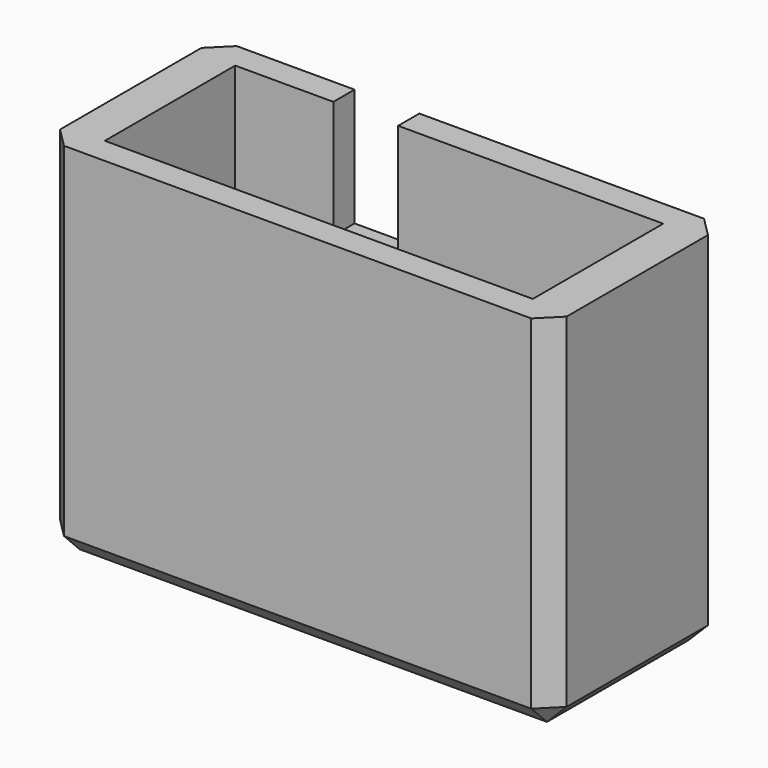
from build123d import *

# Parameters (mm, degrees)
SKETCH_W      = 21.8
SKETCH_H      = 7
PAD_DEPTH     = 10.5
THICKNESS_T   = 2
SKETCH001_W   = 25.8
SKETCH001_H   = 11
SKETCH001_W_2 = 21.8
SKETCH001_H_2 = 8.3
PAD001_DEPTH  = 6
SKETCH002_W   = 3.3
SKETCH002_H   = 1.35
POCKET_DEPTH  = 6
CHAMFER_SIZE  = 1


with BuildPart() as part:
    # Sketch → Pad (new body)
    with BuildSketch(Plane.XY):
        Rectangle(SKETCH_W, SKETCH_H)
    extrude(amount=PAD_DEPTH)

    # Thickness
    thickness_openings = [part.faces().sort_by_distance(p)[0] for p in [
        (0, 0, 10.5),
    ]]
    offset(amount=THICKNESS_T, openings=thickness_openings, kind=Kind.INTERSECTION)

    # Sketch001 (on Face6 of Thickness) → Pad001 (join)
    with BuildSketch(Plane.XY.offset(10.5)):
        Rectangle(SKETCH001_W, SKETCH001_H)
        Rectangle(SKETCH001_W_2, SKETCH001_H_2, mode=Mode.SUBTRACT)
    extrude(amount=PAD001_DEPTH)

    # Sketch002 (on Face8 of Pad001) → Pocket (cut)
    with BuildSketch(Plane.XY.offset(16.5)):
        with Locations((-4.25, 4.825)):
            Rectangle(SKETCH002_W, SKETCH002_H)
    extrude(amount=-POCKET_DEPTH, mode=Mode.SUBTRACT)

    # Chamfer
    chamfer_edges = [part.edges().sort_by_distance(p)[0] for p in [
        (-12.9, -5.5, 7.25),
        (12.9, -5.5, 7.25),
        (-12.9, 5.5, 7.25),
        (12.9, 5.5, 7.25),
        (-12.9, 0, -2),
        (0, -5.5, -2),
        (0, 5.5, -2),
        (12.9, 0, -2),
    ]]
    chamfer(chamfer_edges, length=CHAMFER_SIZE)


solid = part.part
